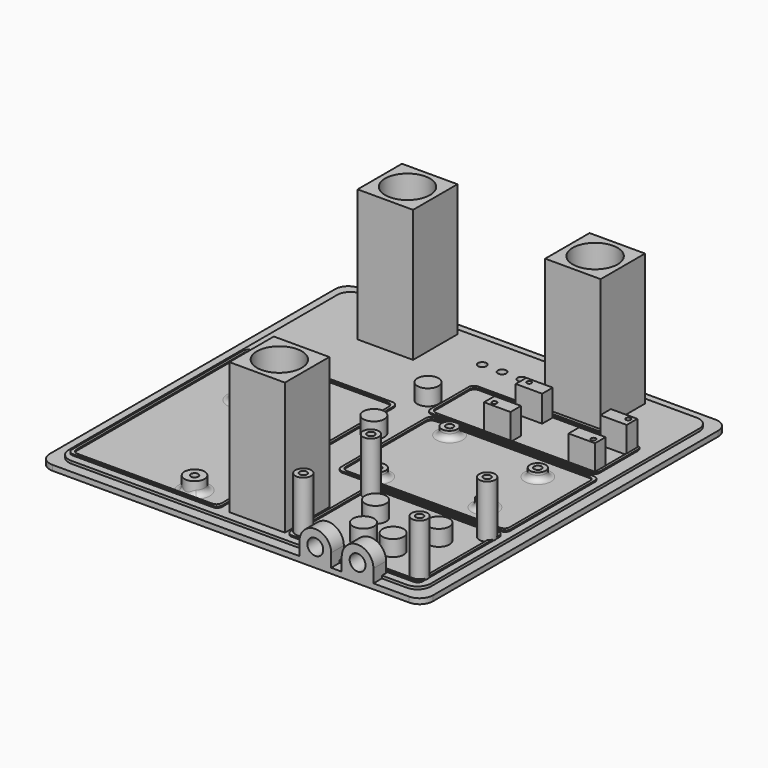
from build123d import *

# Parameters (mm, degrees)
PAD_DEPTH       = 3
SKETCH002_W     = 21
SKETCH002_H     = 21
PAD001_DEPTH    = 50
SKETCH004_R     = 8.5
POCKET_DEPTH    = 53.001
PAD002_DEPTH    = 0.5
SKETCH010_R     = 3.8
SKETCH010_R_2   = 1.4
PAD003_DEPTH    = 5
SKETCH011_R     = 3
SKETCH011_R_2   = 1.4
PAD004_DEPTH    = 20
SKETCH012_W     = 10
SKETCH012_H     = 5
SKETCH012_R     = 0.9
PAD005_DEPTH    = 10
SKETCH013_R     = 3
SKETCH013_R_2   = 1.4
PAD006_DEPTH    = 3
POCKET001_DEPTH = 1
SKETCH005_R     = 1.6
POCKET002_DEPTH = 3.001
SKETCH015_R     = 4
PAD007_DEPTH    = 6
SKETCH016_R     = 3
PAD008_DEPTH    = 6
FILLET_R        = 2
FILLET001_R     = 2


with BuildPart() as part:
    # Sketch → Pad (new body)
    with BuildSketch(Plane.XY):
        with BuildLine():
            Line((-67.5, 72.5), (67.5, 72.5))
            ThreePointArc((72.5, 67.5), (71.035534, 71.035534), (67.5, 72.5))
            Line((72.5, 67.5), (72.5, -67.5))
            ThreePointArc((67.5, -72.5), (71.035534, -71.035534), (72.5, -67.5))
            Line((67.5, -72.5), (-67.5, -72.5))
            ThreePointArc((-72.5, -67.5), (-71.035534, -71.035534), (-67.5, -72.5))
            Line((-72.5, -67.5), (-72.5, 67.5))
            ThreePointArc((-67.5, 72.5), (-71.035534, 71.035534), (-72.5, 67.5))
        make_face()
    extrude(amount=PAD_DEPTH)

    # Sketch002 → Pad001 (new body)
    with BuildSketch(Plane.XY.offset(3)):
        with Locations((-35.5, 55.5)):
            Rectangle(SKETCH002_W, SKETCH002_H)
        with Locations((4, -54.5)):
            Rectangle(SKETCH002_W, SKETCH002_H)
        with Locations((35.5, 55.5)):
            Rectangle(SKETCH002_W, SKETCH002_H)
    extrude(amount=PAD001_DEPTH)

    # Sketch004 → Pocket (cut, through all)
    with BuildSketch(Plane.XY.offset(53)):
        with Locations((-35.5, 55.5)):
            Circle(SKETCH004_R)
        with Locations((35.5, 55.5)):
            Circle(SKETCH004_R)
        with Locations((4, -54.5)):
            Circle(SKETCH004_R)
    extrude(amount=-POCKET_DEPTH, mode=Mode.SUBTRACT)

    # Sketch001 → Pad002 (new body)
    with BuildSketch(Plane.XY.offset(3)):
        with BuildLine():
            Line((3.77696, 19.530749), (63.77696, 19.530749))
            ThreePointArc((65.77696, 17.530749), (65.191174, 18.944962), (63.77696, 19.530749))
            Line((65.77696, 17.530749), (65.77696, -22.469251))
            ThreePointArc((63.77696, -24.469251), (65.191174, -23.883465), (65.77696, -22.469251))
            Line((63.77696, -24.469251), (3.77696, -24.469251))
            ThreePointArc((1.77696, -22.469251), (2.362747, -23.883465), (3.77696, -24.469251))
            Line((1.77696, -22.469251), (1.77696, 17.530749))
            ThreePointArc((3.77696, 19.530749), (2.362747, 18.944962), (1.77696, 17.530749))
        make_face()
        with BuildLine():
            Line((4.77696, 18.530749), (62.77696, 18.530749))
            ThreePointArc((64.77696, 16.530749), (64.191174, 17.944962), (62.77696, 18.530749))
            Line((64.77696, 16.530749), (64.77696, -21.469251))
            ThreePointArc((62.77696, -23.469251), (64.191174, -22.883465), (64.77696, -21.469251))
            Line((62.77696, -23.469251), (4.77696, -23.469251))
            ThreePointArc((2.77696, -21.469251), (3.362747, -22.883465), (4.77696, -23.469251))
            Line((2.77696, -21.469251), (2.77696, 16.530749))
            ThreePointArc((4.77696, 18.530749), (3.362747, 17.944962), (2.77696, 16.530749))
        make_face(mode=Mode.SUBTRACT)
        with BuildLine():
            Line((17.787897, -25.805256), (63.787897, -25.805256))
            ThreePointArc((65.787897, -27.805256), (65.202111, -26.391042), (63.787897, -25.805256))
            Line((65.787897, -27.805256), (65.787897, -63.805256))
            ThreePointArc((63.787897, -65.805256), (65.202111, -65.219469), (65.787897, -63.805256))
            Line((63.787897, -65.805256), (17.787897, -65.805256))
            ThreePointArc((15.787897, -63.805256), (16.373684, -65.219469), (17.787897, -65.805256))
            Line((15.787897, -63.805256), (15.787897, -27.805256))
            ThreePointArc((17.787897, -25.805256), (16.373684, -26.391042), (15.787897, -27.805256))
        make_face()
        with BuildLine():
            Line((18.787897, -26.805256), (62.787897, -26.805256))
            ThreePointArc((64.787897, -28.805256), (64.202111, -27.391042), (62.787897, -26.805256))
            Line((64.787897, -28.805256), (64.787897, -62.805256))
            ThreePointArc((62.787897, -64.805256), (64.202111, -64.219469), (64.787897, -62.805256))
            Line((62.787897, -64.805256), (18.787897, -64.805256))
            ThreePointArc((16.787897, -62.805256), (17.373684, -64.219469), (18.787897, -64.805256))
            Line((16.787897, -62.805256), (16.787897, -28.805256))
            ThreePointArc((18.787897, -26.805256), (17.373684, -27.391042), (16.787897, -28.805256))
        make_face(mode=Mode.SUBTRACT)
        with BuildLine():
            Line((-65.290284, 19.384933), (-12.290284, 19.384933))
            ThreePointArc((-10.290284, 17.384933), (-10.87607, 18.799146), (-12.290284, 19.384933))
            Line((-10.290284, -21.615067), (-10.290284, 17.384933))
            Line((-4.290284, -21.615067), (-10.290284, -21.615067))
            Line((-4.290284, -28.615067), (-4.290284, -21.615067))
            Line((-10.290284, -28.615067), (-4.290284, -28.615067))
            Line((-10.290284, -63.615067), (-10.290284, -28.615067))
            ThreePointArc((-12.290284, -65.615067), (-10.87607, -65.029281), (-10.290284, -63.615067))
            Line((-12.290284, -65.615067), (-65.290284, -65.615067))
            ThreePointArc((-67.290284, -63.615067), (-66.704497, -65.029281), (-65.290284, -65.615067))
            Line((-67.290284, -63.615067), (-67.290284, 17.384933))
            ThreePointArc((-65.290284, 19.384933), (-66.704497, 18.799146), (-67.290284, 17.384933))
        make_face()
        with BuildLine():
            Line((-64.290284, 18.384933), (-13.290284, 18.384933))
            ThreePointArc((-11.290284, 16.384933), (-11.87607, 17.799146), (-13.290284, 18.384933))
            Line((-11.290284, 16.384933), (-11.290284, -62.615067))
            ThreePointArc((-13.290284, -64.615067), (-11.87607, -64.029281), (-11.290284, -62.615067))
            Line((-13.290284, -64.615067), (-64.290284, -64.615067))
            ThreePointArc((-66.290284, -62.615067), (-65.704497, -64.029281), (-64.290284, -64.615067))
            Line((-66.290284, -62.615067), (-66.290284, 16.384933))
            ThreePointArc((-64.290284, 18.384933), (-65.704497, 17.799146), (-66.290284, 16.384933))
        make_face(mode=Mode.SUBTRACT)
        with BuildLine():
            Line((1.261743, 42.996442), (61.261743, 42.996442))
            ThreePointArc((63.261743, 40.996442), (62.675956, 42.410656), (61.261743, 42.996442))
            Line((63.261743, 40.996442), (63.261743, 22.996442))
            ThreePointArc((61.261743, 20.996442), (62.675956, 21.582229), (63.261743, 22.996442))
            Line((61.261743, 20.996442), (1.261743, 20.996442))
            ThreePointArc((-0.738257, 22.996442), (-0.152471, 21.582229), (1.261743, 20.996442))
            Line((-0.738257, 22.996442), (-0.738257, 40.996442))
            ThreePointArc((1.261743, 42.996442), (-0.152471, 42.410656), (-0.738257, 40.996442))
        make_face()
        with BuildLine():
            Line((2.261743, 41.996442), (60.261743, 41.996442))
            ThreePointArc((62.261743, 39.996442), (61.675956, 41.410656), (60.261743, 41.996442))
            Line((62.261743, 39.996442), (62.261743, 23.996442))
            ThreePointArc((60.261743, 21.996442), (61.675956, 22.582229), (62.261743, 23.996442))
            Line((60.261743, 21.996442), (2.261743, 21.996442))
            ThreePointArc((0.261743, 23.996442), (0.847529, 22.582229), (2.261743, 21.996442))
            Line((0.261743, 23.996442), (0.261743, 39.996442))
            ThreePointArc((2.261743, 41.996442), (0.847529, 41.410656), (0.261743, 39.996442))
        make_face(mode=Mode.SUBTRACT)
    extrude(amount=PAD002_DEPTH)

    # Sketch010 → Pad003 (new body)
    with BuildSketch(Plane.XY.offset(3)):
        with Locations((-23.3, -60.5)):
            Circle(SKETCH010_R)
        with Locations((-23.3, -60.5)):
            Circle(SKETCH010_R_2, mode=Mode.SUBTRACT)
        with Locations((-48.3, -6.5)):
            Circle(SKETCH010_R)
        with Locations((-48.3, -6.5)):
            Circle(SKETCH010_R_2, mode=Mode.SUBTRACT)
    extrude(amount=PAD003_DEPTH)

    # Sketch011 → Pad004 (new body)
    with BuildSketch(Plane.XY.offset(3)):
        with Locations((18.9, -29.8)):
            Circle(SKETCH011_R)
        with Locations((18.9, -29.8)):
            Circle(SKETCH011_R_2, mode=Mode.SUBTRACT)
        with Locations((62.9, -29.8)):
            Circle(SKETCH011_R)
        with Locations((62.9, -29.8)):
            Circle(SKETCH011_R_2, mode=Mode.SUBTRACT)
        with Locations((62.9, -61.8)):
            Circle(SKETCH011_R)
        with Locations((62.9, -61.8)):
            Circle(SKETCH011_R_2, mode=Mode.SUBTRACT)
        with Locations((18.9, -61.8)):
            Circle(SKETCH011_R)
        with Locations((18.9, -61.8)):
            Circle(SKETCH011_R_2, mode=Mode.SUBTRACT)
    extrude(amount=PAD004_DEPTH)

    # Sketch012 → Pad005 (new body)
    with BuildSketch(Plane.XY.offset(3)):
        with Locations((25.299017, 39.451327)):
            Rectangle(SKETCH012_W, SKETCH012_H)
        with Locations((22.799017, 40.201327)):
            Circle(SKETCH012_R, mode=Mode.SUBTRACT)
        with Locations((25.299017, 24.451327)):
            Rectangle(SKETCH012_W, SKETCH012_H)
        with Locations((22.799017, 23.701327)):
            Circle(SKETCH012_R, mode=Mode.SUBTRACT)
        with Locations((57.299017, 39.451327)):
            Rectangle(SKETCH012_W, SKETCH012_H)
        with Locations((60.299017, 40.201327)):
            Circle(SKETCH012_R, mode=Mode.SUBTRACT)
        with Locations((57.299017, 24.451327)):
            Rectangle(SKETCH012_W, SKETCH012_H)
        with Locations((60.299017, 23.701327)):
            Circle(SKETCH012_R, mode=Mode.SUBTRACT)
    extrude(amount=PAD005_DEPTH)

    # Sketch013 → Pad006 (new body)
    with BuildSketch(Plane.XY.offset(3)):
        with Locations((13.511348, 14.14252)):
            Circle(SKETCH013_R)
        with Locations((13.511348, 14.14252)):
            Circle(SKETCH013_R_2, mode=Mode.SUBTRACT)
        with Locations((13.511348, -19.85748)):
            Circle(SKETCH013_R)
        with Locations((13.511348, -19.85748)):
            Circle(SKETCH013_R_2, mode=Mode.SUBTRACT)
        with Locations((50.511348, 9.64252)):
            Circle(SKETCH013_R)
        with Locations((50.511348, 9.64252)):
            Circle(SKETCH013_R_2, mode=Mode.SUBTRACT)
        with Locations((50.511348, -15.35748)):
            Circle(SKETCH013_R)
        with Locations((50.511348, -15.35748)):
            Circle(SKETCH013_R_2, mode=Mode.SUBTRACT)
    extrude(amount=PAD006_DEPTH)

    # Sketch014 → Pocket001 (cut)
    with BuildSketch(Plane.XY.offset(3)):
        with BuildLine():
            Line((-67.5, 72.5), (67.5, 72.5))
            ThreePointArc((72.5, 67.5), (71.035534, 71.035534), (67.5, 72.5))
            Line((72.5, 67.5), (72.5, -67.5))
            ThreePointArc((67.5, -72.5), (71.035534, -71.035534), (72.5, -67.5))
            Line((67.5, -72.5), (-67.5, -72.5))
            ThreePointArc((-72.5, -67.5), (-71.035534, -71.035534), (-67.5, -72.5))
            Line((-72.5, -67.5), (-72.5, 67.5))
            ThreePointArc((-67.5, 72.5), (-71.035534, 71.035534), (-72.5, 67.5))
        make_face()
        with BuildLine():
            Line((-63.5, 68.5), (63.5, 68.5))
            ThreePointArc((68.5, 63.5), (67.035534, 67.035534), (63.5, 68.5))
            Line((68.5, 63.5), (68.5, -63.5))
            ThreePointArc((63.5, -68.5), (67.035534, -67.035534), (68.5, -63.5))
            Line((63.5, -68.5), (-63.5, -68.5))
            ThreePointArc((-68.5, -63.5), (-67.035534, -67.035534), (-63.5, -68.5))
            Line((-68.5, -63.5), (-68.5, 63.5))
            ThreePointArc((-63.5, 68.5), (-67.035534, 67.035534), (-68.5, 63.5))
        make_face(mode=Mode.SUBTRACT)
    extrude(amount=-POCKET001_DEPTH, mode=Mode.SUBTRACT)

    # Sketch005 → Pocket002 (cut, through all)
    with BuildSketch(Plane.XY.offset(3)):
        with Locations((-7.155239, 55.431637)):
            Circle(SKETCH005_R)
        with Locations((0.344761, 55.431637)):
            Circle(SKETCH005_R)
        with Locations((7.844761, 55.431637)):
            Circle(SKETCH005_R)
    extrude(amount=-POCKET002_DEPTH, mode=Mode.SUBTRACT)

    # Sketch015 → Pad007 (new body)
    with BuildSketch(Plane.XY.offset(3)):
        with Locations((35.743775, -54.376994)):
            Circle(SKETCH015_R)
        with Locations((29.411776, -40.774908)):
            Circle(SKETCH015_R)
        with Locations((2.029309, -34.601993)):
            Circle(SKETCH015_R)
        with Locations((-5.482253, 27.638889)):
            Circle(SKETCH015_R)
        with Locations((-4.737103, 1.128422)):
            Circle(SKETCH015_R)
        with Locations((53.225517, -40.548424)):
            Circle(SKETCH015_R)
        with Locations((46.743711, -54.116879)):
            Circle(SKETCH015_R)
    extrude(amount=PAD007_DEPTH)

    # Sketch016 → Pad008 (new body)
    with BuildSketch(Plane.XZ.offset(72.5)):
        with BuildLine():
            ThreePointArc((38, 6.99), (32, 12.99), (26, 6.99))
            Line((26, 6.99), (26, 1.99))
            Line((26, 1.99), (38, 1.99))
            Line((38, 6.99), (38, 1.99))
        make_face()
        with Locations((32, 6.99)):
            Circle(SKETCH016_R, mode=Mode.SUBTRACT)
        with BuildLine():
            ThreePointArc((54, 6.99), (48, 12.99), (42, 6.99))
            Line((42, 6.99), (42, 1.99))
            Line((42, 1.99), (54, 1.99))
            Line((54, 6.99), (54, 1.99))
        make_face()
        with Locations((48, 6.99)):
            Circle(SKETCH016_R, mode=Mode.SUBTRACT)
    extrude(amount=-PAD008_DEPTH)

    # Fillet
    fillet_edges = [part.edges().sort_by_distance(p)[0] for p in [
        (10.511348, -19.85748, 3),
        (47.511348, -15.35748, 3),
        (47.511348, 9.64252, 3),
        (10.511348, 14.14252, 3),
    ]]
    fillet(fillet_edges, radius=FILLET_R)

    # Fillet001
    fillet001_edges = [part.edges().sort_by_distance(p)[0] for p in [
        (-52.1, -6.5, 3),
        (-27.1, -60.5, 3),
    ]]
    fillet(fillet001_edges, radius=FILLET001_R)


solid = part.part
